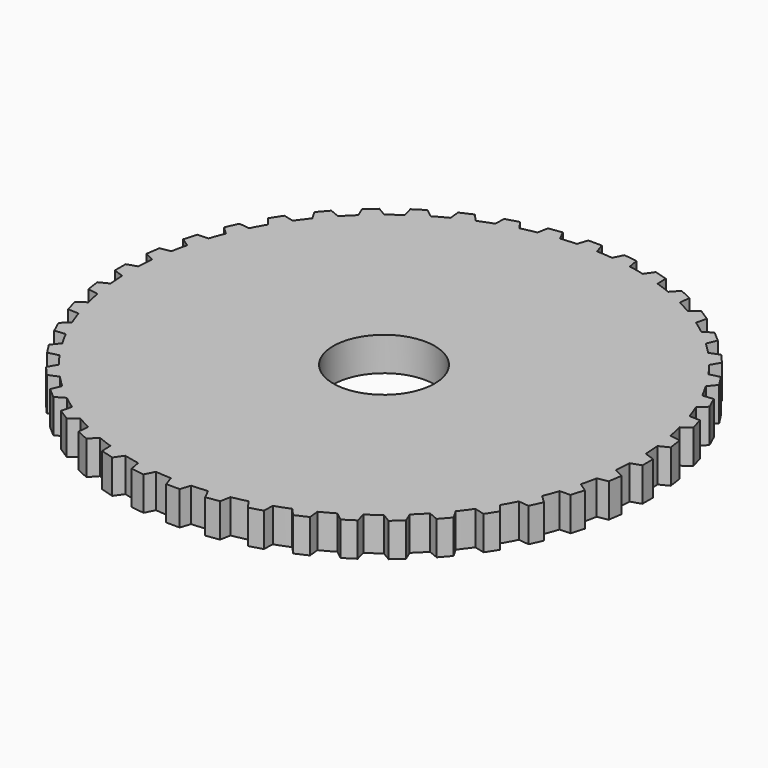
from build123d import *

# Parameters (mm, degrees)
F3_R      = 7.5
F4_DEPTH  = 1
F8_DEPTH  = 1
F9_COUNT  = 44
F10_R     = 1.5
F11_DEPTH = 1


with BuildPart() as f4:
    # F3 (on Top) → F4 (new body)
    with BuildSketch(Plane.XY):
        Circle(F3_R)
    extrude(amount=F4_DEPTH)

    # F5 (on face) → F8 (join)
    with BuildSketch(Plane.XY.offset(1)):
        Polygon((7.7939975981, -0.2), (7.7939975981, 0.2), (7.4939975981, 0.3), (7.3939975981, 0.3), (7.3939975981, -0.3), (7.4939975981, -0.3), align=None)
    extrude(amount=-F8_DEPTH)

    # F9: F4 ×44 about axis
    f9_axis = Axis((0, 0, 0), (0, 0, -1))


with BuildPart() as f4_1:
    add(f4.part)
    for i in range(1, F9_COUNT):
        add(f4.part.rotate(f9_axis, i * 360 / F9_COUNT))

    # F10 (on face) → F11 (cut, through all)
    with BuildSketch(Plane(origin=(0, 0, 0), x_dir=(1, 0, 0), z_dir=(0, 0, -1))):
        Circle(F10_R)
    extrude(amount=-F11_DEPTH, mode=Mode.SUBTRACT)


solid = f4_1.part
